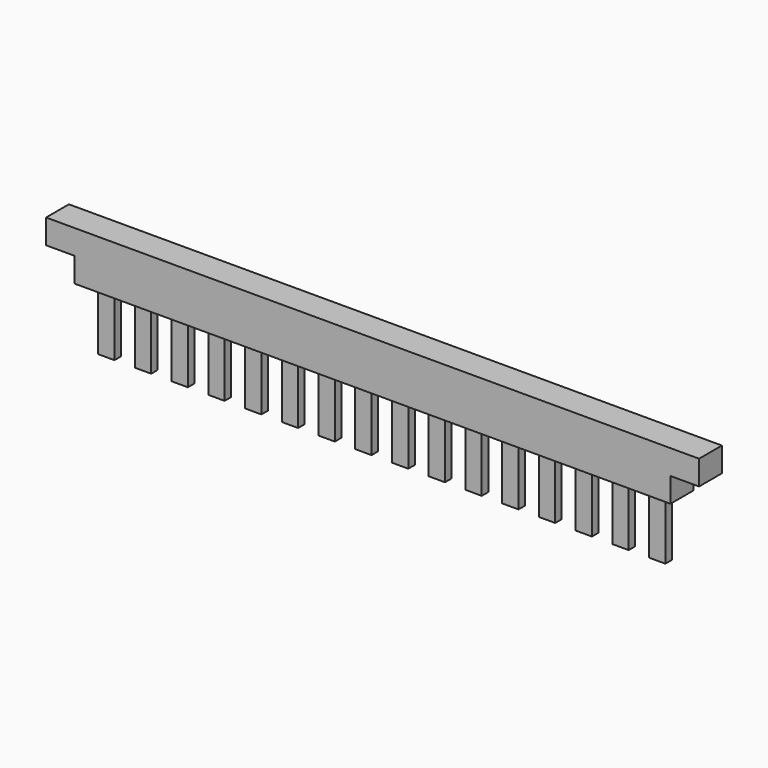
from build123d import *

# Parameters (mm, degrees)
F1_DEPTH = 3.5
F0_W     = 4
F0_H     = 15
F2_DEPTH = 1


with BuildPart() as f1:
    # F0 (on Front) → F1 (new body, symmetric)
    with BuildSketch(Plane.XZ):
        Polygon((80, -3), (80, 3), (-80, 3), (-80, -3), (-73, -3), (73, -3), align=None)
        Polygon((73, -9), (73, -3), (-73, -3), (-73, -9), (-69.25, -9), (-65.25, -9), (-60.25, -9), (-56.25, -9), (-51.25, -9), (-47.25, -9), (-42.25, -9), (-38.25, -9), (-33.25, -9), (-29.25, -9), (-24.25, -9), (-20.25, -9), (-15.25, -9), (-11.25, -9), (-6.25, -9), (-2.25, -9), (2.75, -9), (6.75, -9), (11.75, -9), (15.75, -9), (20.75, -9), (24.75, -9), (29.75, -9), (33.75, -9), (38.75, -9), (42.75, -9), (47.75, -9), (51.75, -9), (56.75, -9), (60.75, -9), (65.75, -9), (69.75, -9), align=None)
    extrude(amount=F1_DEPTH, both=True)

    # F0 (on Front) → F2 (join, symmetric)
    with BuildSketch(Plane.XZ):
        with Locations((67.75, -16.5)):
            Rectangle(F0_W, F0_H)
        with Locations((58.75, -16.5)):
            Rectangle(F0_W, F0_H)
        with Locations((49.75, -16.5)):
            Rectangle(F0_W, F0_H)
        with Locations((40.75, -16.5)):
            Rectangle(F0_W, F0_H)
        with Locations((31.75, -16.5)):
            Rectangle(F0_W, F0_H)
        with Locations((22.75, -16.5)):
            Rectangle(F0_W, F0_H)
        with Locations((13.75, -16.5)):
            Rectangle(F0_W, F0_H)
        with Locations((4.75, -16.5)):
            Rectangle(F0_W, F0_H)
        with Locations((-4.25, -16.5)):
            Rectangle(F0_W, F0_H)
        with Locations((-13.25, -16.5)):
            Rectangle(F0_W, F0_H)
        with Locations((-22.25, -16.5)):
            Rectangle(F0_W, F0_H)
        with Locations((-31.25, -16.5)):
            Rectangle(F0_W, F0_H)
        with Locations((-40.25, -16.5)):
            Rectangle(F0_W, F0_H)
        with Locations((-49.25, -16.5)):
            Rectangle(F0_W, F0_H)
        with Locations((-58.25, -16.5)):
            Rectangle(F0_W, F0_H)
        with Locations((-67.25, -16.5)):
            Rectangle(F0_W, F0_H)
    extrude(amount=F2_DEPTH, both=True)


solid = f1.part
